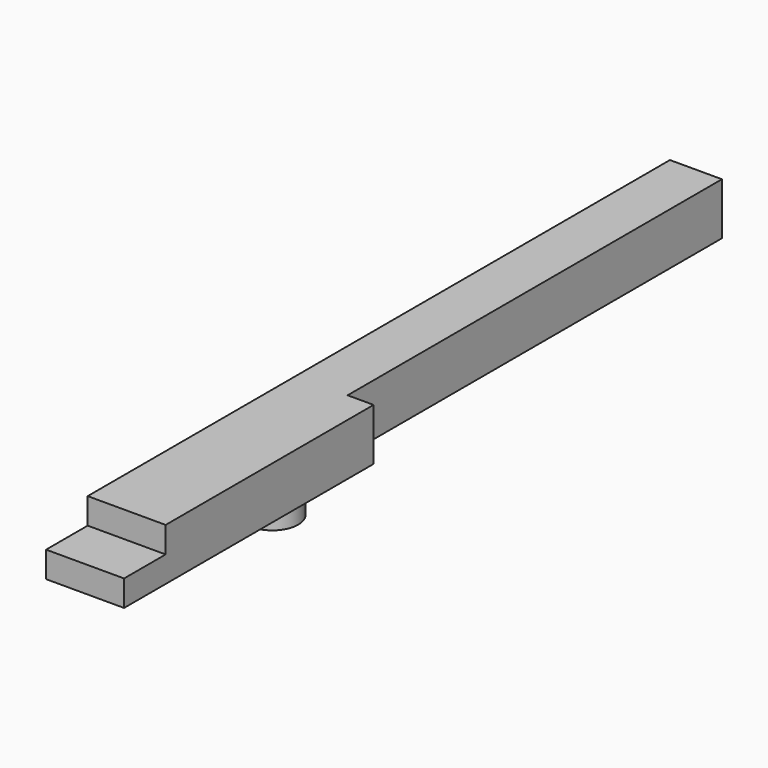
from build123d import *

# Parameters (mm, degrees)
F0_W     = 15
F0_H     = 150
F1_DEPTH = 10
F2_W     = 10
F2_H     = 5
F3_DEPTH = 15
F4_W     = 5
F4_H     = 90
F5_DEPTH = 10
F6_R     = 5
F7_DEPTH = 5


with BuildPart() as f1:
    # F0 (on Top) → F1 (new body)
    with BuildSketch(Plane.XY):
        with Locations((7.5, -75)):
            Rectangle(F0_W, F0_H)
    extrude(amount=-F1_DEPTH)

    # F2 (on face) → F3 (cut)
    with BuildSketch(Plane.YZ.offset(15)):
        with Locations((-145, -2.5)):
            Rectangle(F2_W, F2_H)
    extrude(amount=-F3_DEPTH, mode=Mode.SUBTRACT)

    # F4 (on face) → F5 (cut)
    with BuildSketch(Plane(origin=(0, 0, -10), x_dir=(1, 0, 0), z_dir=(0, 0, -1))):
        with Locations((12.5, 45)):
            Rectangle(F4_W, F4_H)
    extrude(amount=-F5_DEPTH, mode=Mode.SUBTRACT)

    # F6 (on face) → F7 (join)
    with BuildSketch(Plane(origin=(0, 0, -10), x_dir=(1, 0, 0), z_dir=(0, 0, -1))):
        with Locations((7.5, 105)):
            Circle(F6_R)
    extrude(amount=F7_DEPTH)


solid = f1.part
